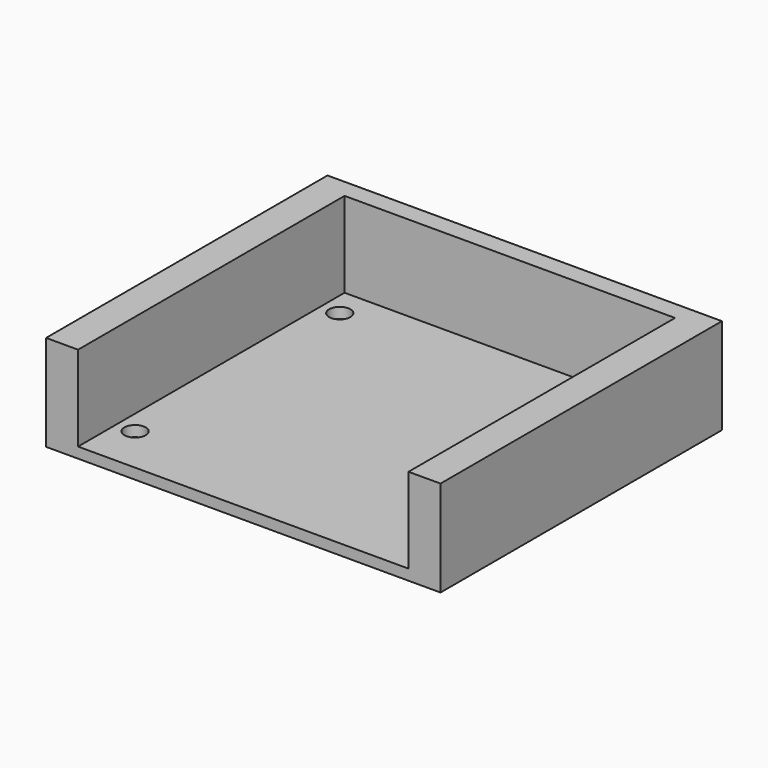
from build123d import *

# Parameters (mm, degrees)
SKETCH001_W     = 74
SKETCH001_H     = 66
PAD_DEPTH       = 18
POCKET_DEPTH    = 16
SKETCH002_R     = 2
POCKET001_DEPTH = 2.001


with BuildPart() as part:
    # Sketch001 → Pad (new body)
    with BuildSketch(Plane.XY):
        Rectangle(SKETCH001_W, SKETCH001_H)
    extrude(amount=PAD_DEPTH)

    # Sketch (on Face6 of Pad) → Pocket (cut)
    with BuildSketch(Plane.XY.offset(18)):
        Polygon((-31, 29.5), (31, 29.5), (31, -29.5), (31, -33), (-31, -33), (-31, -29.5), align=None)
    extrude(amount=-POCKET_DEPTH, mode=Mode.SUBTRACT)

    # Sketch002 (on Face12 of Pocket) → Pocket001 (cut, through all)
    with BuildSketch(Plane.XY.offset(2)):
        with Locations((-27.5, 24)):
            Circle(SKETCH002_R)
        with Locations((27.5, 24)):
            Circle(SKETCH002_R)
        with Locations((27.5, -24)):
            Circle(SKETCH002_R)
        with Locations((-27.5, -24)):
            Circle(SKETCH002_R)
    extrude(amount=-POCKET001_DEPTH, mode=Mode.SUBTRACT)


solid = part.part
